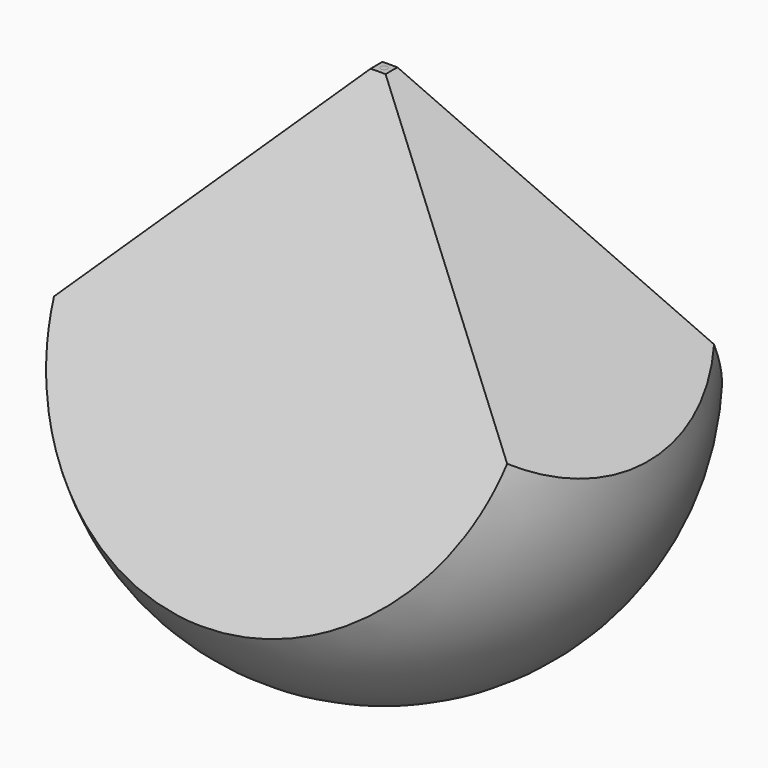
from build123d import *

# Parameters (mm, degrees)
F2_W = 25.4
F2_H = 25.4
F0_W = 1828.8
F0_H = 1028.7


with BuildPart() as f3:
    # F2 (on offset) → F3 section 0
    with BuildSketch(Plane.XY.offset(914.4)):
        Rectangle(F2_W, F2_H)
    # F0 (on Top) → F3 section 1
    with BuildSketch(Plane.XY):
        Rectangle(F0_W, F0_H)
    loft()

    # F4 (on Right) → F5 (revolve, intersect)
    with BuildSketch(Plane.YZ):
        with BuildLine():
            ThreePointArc((0, 0), (457.218051, 457.218051), (0, 914.436102))
            Line((0, 914.436102), (0, 0))
        make_face()
    revolve(axis=Axis((0, 0, 457.218051), (0, 0, -1)), mode=Mode.INTERSECT)


solid = f3.part
